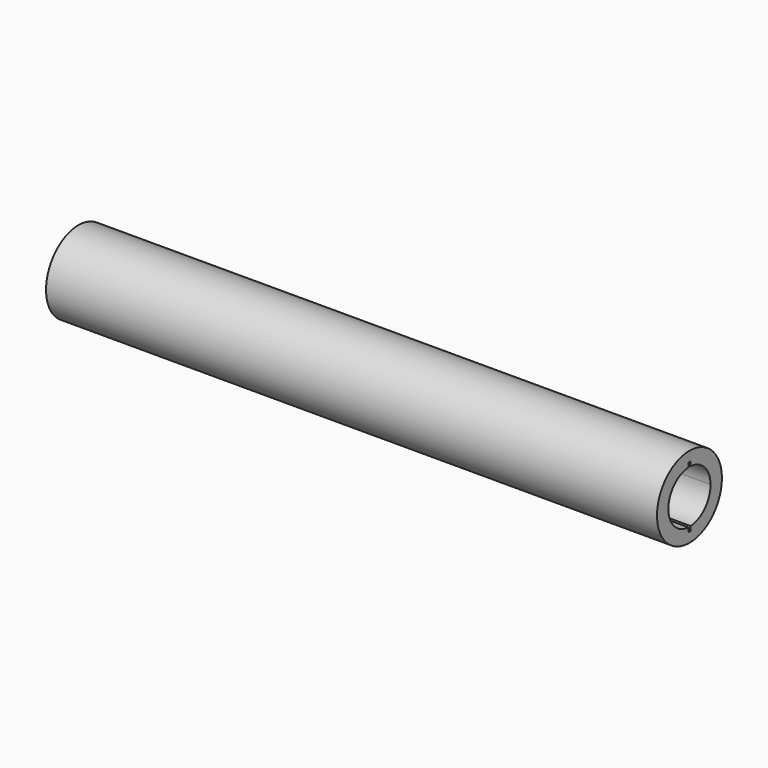
from build123d import *

# Parameters (mm, degrees)
F0_R     = 3.375184
F1_DEPTH = 50.8


with BuildPart() as f1:
    # F0 (on Right) → F1 (new body)
    with BuildSketch(Plane.YZ):
        Circle(F0_R)
        with BuildLine():
            ThreePointArc((0.121489, 2.187379), (1.591468, 1.505529), (2.19075, 0))
            ThreePointArc((2.19075, 0), (1.591468, -1.505529), (0.121489, -2.187379))
            Line((0.121489, -2.187379), (0.121489, -2.556662))
            Line((0.121489, -2.556662), (0, -2.556662))
            Line((0, -2.556662), (-0.121489, -2.556662))
            Line((-0.121489, -2.556662), (-0.121489, -2.187379))
            ThreePointArc((-0.121489, -2.187379), (-2.19075, 0), (-0.121489, 2.187379))
            Line((-0.121489, 2.187379), (-0.121489, 2.556662))
            Line((-0.121489, 2.556662), (0, 2.556662))
            Line((0, 2.556662), (0.121489, 2.556662))
            Line((0.121489, 2.556662), (0.121489, 2.187379))
        make_face(mode=Mode.SUBTRACT)
    extrude(amount=F1_DEPTH)


solid = f1.part
